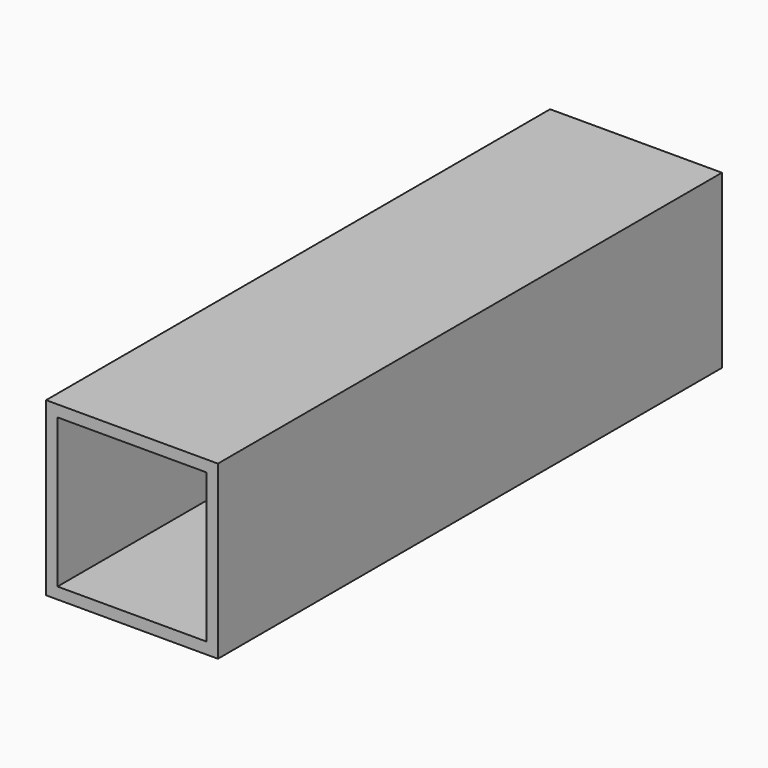
from build123d import *

# Parameters (mm, degrees)
SKETCH001_W   = 30
SKETCH001_H   = 30
SKETCH001_W_2 = 26
SKETCH001_H_2 = 26
PAD001_DEPTH  = 110


with BuildPart() as part:
    # Sketch001 → Pad001 (new body)
    with BuildSketch(Plane.XZ):
        with Locations((15, -15)):
            Rectangle(SKETCH001_W, SKETCH001_H)
        with Locations((15, -15)):
            Rectangle(SKETCH001_W_2, SKETCH001_H_2, mode=Mode.SUBTRACT)
    extrude(amount=PAD001_DEPTH)


with BuildPart() as part_1:
    # Body001 placement: moved
    add(part.part.moved(Location((-240, 390, 0))))


solid = part_1.part
